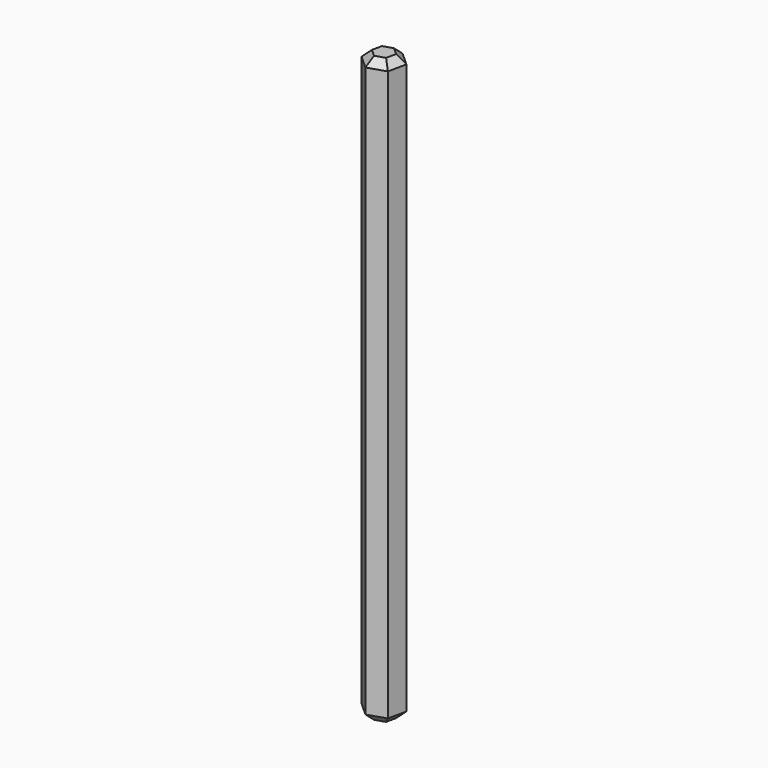
from build123d import *

# Parameters (mm, degrees)
F1_DEPTH = 99.06
F2_SIZE  = 1.27
F3_SIZE  = 1.27


with BuildPart() as f1:
    # F0 (on Top) → F1 (new body)
    with BuildSketch(Plane.XY):
        Polygon((-41.710054, 30.094995), (-38.689673, 31.073729), (-38.027091, 34.178824), (-40.384891, 36.305183), (-43.405272, 35.326448), (-44.067854, 32.221354), align=None)
    extrude(amount=F1_DEPTH)

    # F2
    f2_edges = [f1.edges().sort_by_distance(p)[0] for p in [
        (-40.199863, 30.584362, 0),
        (-38.358382, 32.626277, 0),
        (-39.205991, 35.242004, 0),
        (-41.895082, 35.815816, 0),
        (-43.736563, 33.773901, 0),
        (-42.888954, 31.158174, 0),
    ]]
    chamfer(f2_edges, length=F2_SIZE)

    # F3
    f3_edges = [f1.edges().sort_by_distance(p)[0] for p in [
        (-40.199863, 30.584362, 99.06),
        (-38.358382, 32.626277, 99.06),
        (-39.205991, 35.242004, 99.06),
        (-41.895082, 35.815816, 99.06),
        (-43.736563, 33.773901, 99.06),
        (-42.888954, 31.158174, 99.06),
    ]]
    chamfer(f3_edges, length=F3_SIZE)


solid = f1.part
